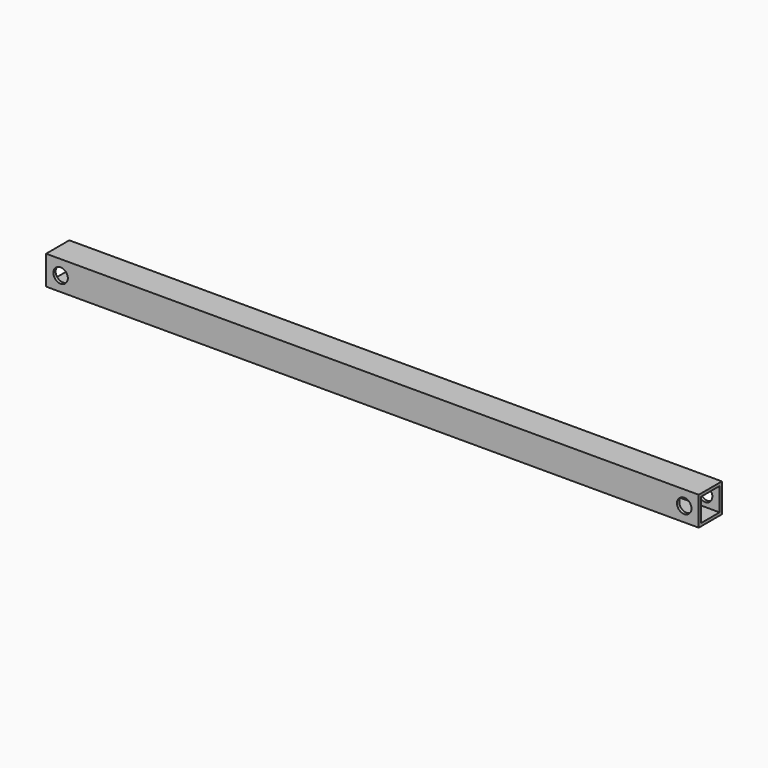
from build123d import *

# Parameters (mm, degrees)
F0_W     = 20
F0_H     = 20
F0_W_2   = 16
F0_H_2   = 16
F1_DEPTH = 450
F2_R     = 5
F3_DEPTH = 20.001
F4_R     = 5
F5_DEPTH = 20.001


with BuildPart() as f1:
    # F0 (on Right) → F1 (new body)
    with BuildSketch(Plane.YZ):
        with Locations((10, 10)):
            Rectangle(F0_W, F0_H)
        with Locations((10, 10)):
            Rectangle(F0_W_2, F0_H_2, mode=Mode.SUBTRACT)
    extrude(amount=F1_DEPTH)

    # F2 (on face) → F3 (cut, through all)
    with BuildSketch(Plane.XZ):
        with Locations((440, 10)):
            Circle(F2_R)
    extrude(amount=-F3_DEPTH, mode=Mode.SUBTRACT)

    # F4 (on face) → F5 (cut, through all)
    with BuildSketch(Plane.XZ):
        with Locations((10, 10)):
            Circle(F4_R)
    extrude(amount=-F5_DEPTH, mode=Mode.SUBTRACT)


solid = f1.part
